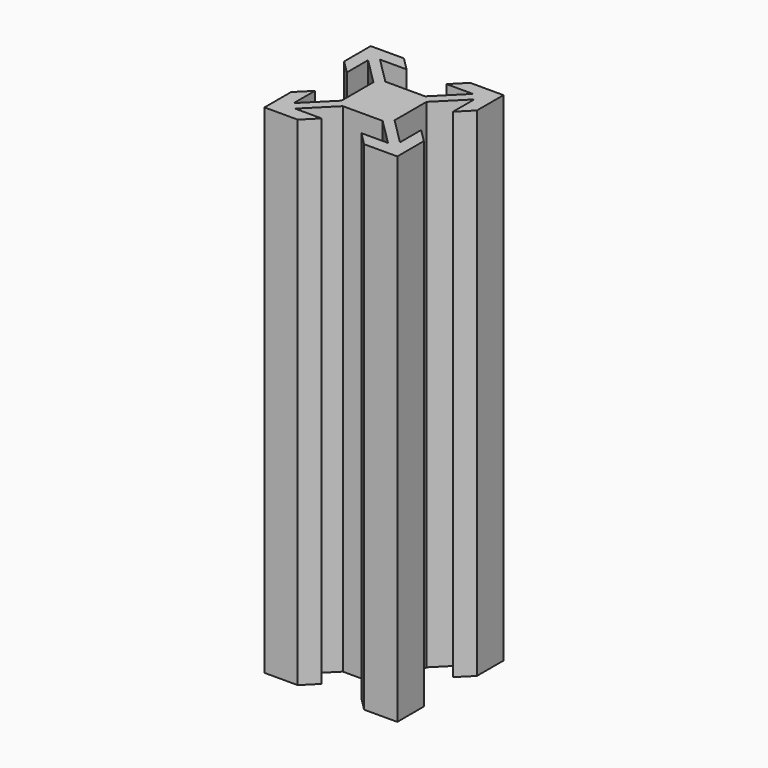
from build123d import *

# Parameters (mm, degrees)
F1_DEPTH = 50
F2_DEPTH = 25


with BuildPart() as f1:
    # F0 (on Top) → F1 (new body)
    with BuildSketch(Plane.XY):
        Polygon((4, 3), (4, 4), (3, 4), (-3, 4), (-4, 4), (-4, 3), (-4, -3), (-4, -4), (-3, -4), (3, -4), (4, -4), (4, -3), align=None)
        Polygon((-8, -3), (-10, -5), (-10, -10), (-4, -4), (-4, -3), (-8, -7), align=None)
        Polygon((-10, -10), (-5, -10), (-3, -8), (-7, -8), (-3, -4), (-4, -4), align=None)
        Polygon((5, -10), (10, -10), (4, -4), (3, -4), (7, -8), (3, -8), align=None)
        Polygon((10, -10), (10, -5), (8, -3), (8, -7), (4, -3), (4, -4), align=None)
        Polygon((10, 5), (10, 10), (4, 4), (4, 3), (8, 7), (8, 3), align=None)
        Polygon((4, 4), (10, 10), (5, 10), (3, 8), (7, 8), (3, 4), align=None)
        Polygon((-3, 8), (-5, 10), (-10, 10), (-4, 4), (-3, 4), (-7, 8), align=None)
        Polygon((-4, 4), (-10, 10), (-10, 5), (-8, 3), (-8, 7), (-4, 3), align=None)
    extrude(amount=F1_DEPTH)

    # F2 (add): a face of the model
    f2_faces = [f1.faces().sort_by_distance(p)[0] for p in [
        (0, 0, 50),
    ]]
    extrude(f2_faces, amount=F2_DEPTH)


solid = f1.part
